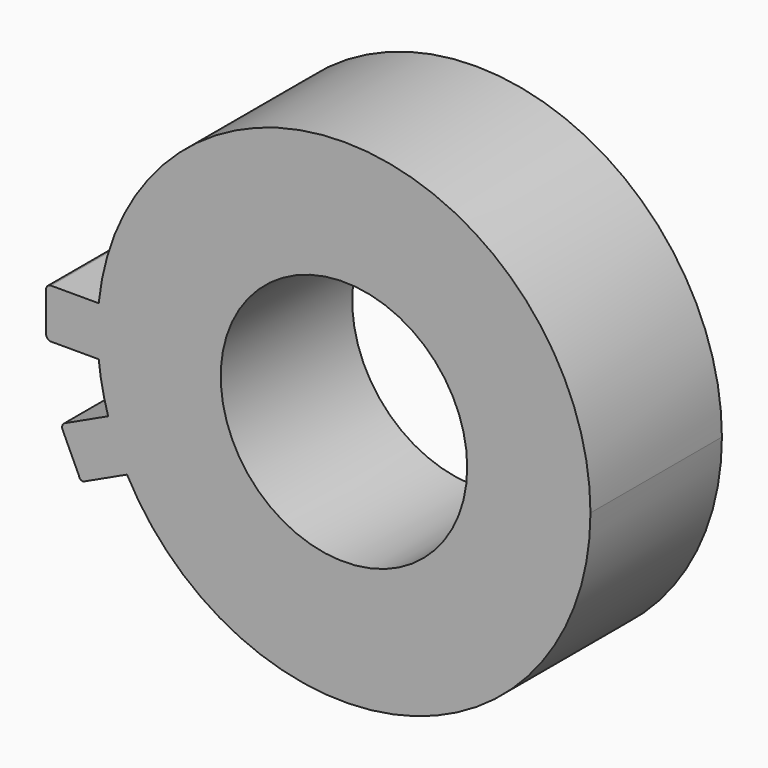
from build123d import *

# Parameters (mm, degrees)
F0_R     = 19.05
F1_DEPTH = 25.4


with BuildPart() as f1:
    # F0 (on Front) → F1 (new body)
    with BuildSketch(Plane.XZ):
        with BuildLine():
            ThreePointArc((-33.535455, -18.082679), (9.324944, -36.941243), (38.1, 0))
            ThreePointArc((38.1, 0), (1.907392, 38.052225), (-37.909021, 3.81))
            ThreePointArc((-37.909021, 3.81), (-38.1, 0), (-37.909021, -3.81))
            ThreePointArc((-37.909021, -3.81), (-37.357291, -7.486173), (-36.449937, -11.091082))
            ThreePointArc((-36.449937, -11.091082), (-35.166879, -14.659489), (-33.535455, -18.082679))
        make_face()
        Circle(F0_R, mode=Mode.SUBTRACT)
        with BuildLine():
            ThreePointArc((-37.909021, -3.81), (-38.1, 0), (-37.909021, 3.81))
            Line((-37.909021, 3.81), (-45.281142, 3.81))
            ThreePointArc((-45.281142, 3.81), (-45.819958, 3.586815), (-46.043142, 3.048))
            Line((-46.043142, 3.048), (-46.043142, 0))
            Line((-46.043142, 0), (-46.043142, -3.048))
            ThreePointArc((-46.043142, -3.048), (-45.815414, -3.586136), (-45.275021, -3.808454))
            Line((-45.275021, -3.808454), (-37.909021, -3.81))
        make_face()
        with BuildLine():
            Line((-40.141169, -21.162974), (-33.535455, -18.082679))
            ThreePointArc((-33.535455, -18.082679), (-35.166879, -14.659489), (-36.449937, -11.091082))
            Line((-36.449937, -11.091082), (-43.1258, -14.204088))
            ThreePointArc((-43.1258, -14.204088), (-43.519811, -14.634075), (-43.494372, -15.216729))
            Line((-43.494372, -15.216729), (-42.228101, -17.932256))
            Line((-42.228101, -17.932256), (-40.93996, -20.694683))
            ThreePointArc((-40.93996, -20.694683), (-40.663444, -21.138431), (-40.141169, -21.162974))
        make_face()
    extrude(amount=F1_DEPTH)


solid = f1.part
